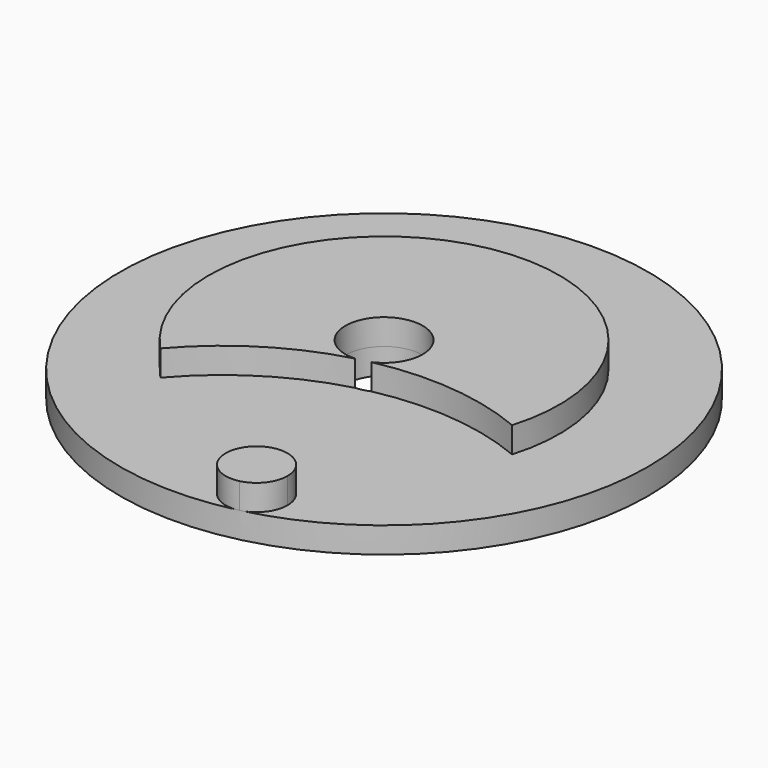
from build123d import *

# Parameters (mm, degrees)
F0_R     = 32.512
F0_R_2   = 4.7625
F1_DEPTH = 3.175
F3_DEPTH = 3.175


with BuildPart() as f1:
    # F0 (on Top) → F1 (new body)
    with BuildSketch(Plane.XY):
        Circle(F0_R)
        Circle(F0_R_2, mode=Mode.SUBTRACT)
    extrude(amount=F1_DEPTH)

    # F2 (on face) → F3 (join)
    with BuildSketch(Plane.XY.offset(3.175)):
        with BuildLine():
            ThreePointArc((1.916308, -4.359951), (11.44144, -3.831691), (20.693533, -6.156767))
            ThreePointArc((20.693533, -6.156767), (-4.989244, 21.005607), (-15.714829, -14.804467))
            ThreePointArc((-15.714829, -14.804467), (-8.49643, -8.567327), (0.248907, -4.755991))
            ThreePointArc((0.248907, -4.755991), (-3.454477, 3.278413), (4.7625, 0))
            ThreePointArc((4.7625, 0), (3.987971, -2.603362), (1.916308, -4.359951))
        make_face()
        with BuildLine():
            ThreePointArc((7.513214, -31.631974), (9.62196, -30.28747), (10.44276, -27.925102))
            ThreePointArc((10.44276, -27.925102), (3.64356, -25.562733), (7.513214, -31.631974))
        make_face()
    extrude(amount=F3_DEPTH)


solid = f1.part
